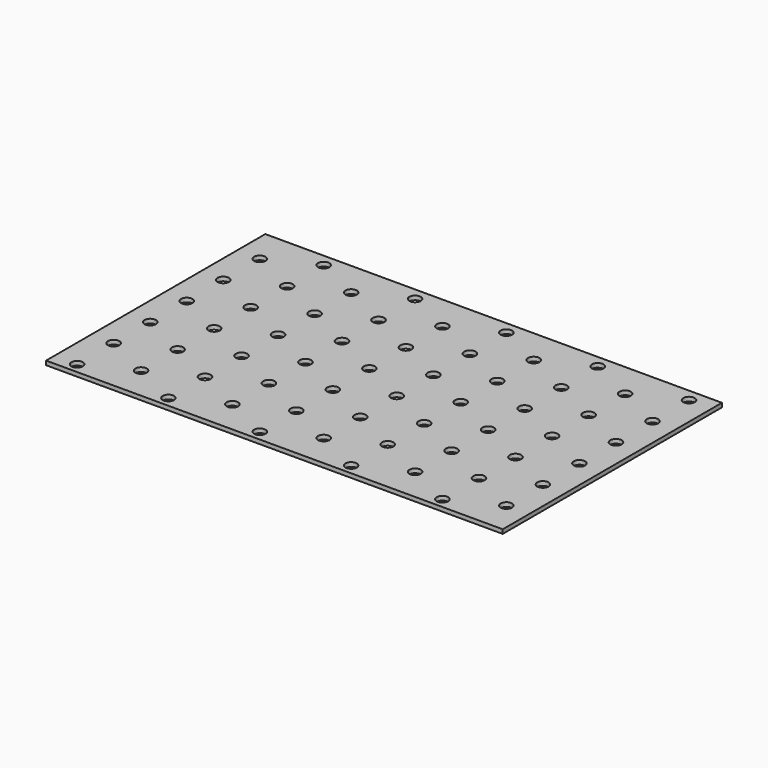
from build123d import *

# Parameters (mm, degrees)
SKETCH_W  = 200
SKETCH_H  = 120
SKETCH_R  = 2.5
PAD_DEPTH = 1.8


with BuildPart() as part:
    # Sketch → Pad (new body)
    with BuildSketch(Plane.XY):
        with Locations((90, 55.5)):
            Rectangle(SKETCH_W, SKETCH_H)
        Circle(SKETCH_R, mode=Mode.SUBTRACT)
        with Locations((0, 20)):
            Circle(SKETCH_R, mode=Mode.SUBTRACT)
        with Locations((0, 40)):
            Circle(SKETCH_R, mode=Mode.SUBTRACT)
        with Locations((0, 60)):
            Circle(SKETCH_R, mode=Mode.SUBTRACT)
        with Locations((20, 10)):
            Circle(SKETCH_R, mode=Mode.SUBTRACT)
        with Locations((20, 30)):
            Circle(SKETCH_R, mode=Mode.SUBTRACT)
        with Locations((20, 50)):
            Circle(SKETCH_R, mode=Mode.SUBTRACT)
        with Locations((20, 70)):
            Circle(SKETCH_R, mode=Mode.SUBTRACT)
        with Locations((40, 0)):
            Circle(SKETCH_R, mode=Mode.SUBTRACT)
        with Locations((40, 20)):
            Circle(SKETCH_R, mode=Mode.SUBTRACT)
        with Locations((40, 40)):
            Circle(SKETCH_R, mode=Mode.SUBTRACT)
        with Locations((40, 60)):
            Circle(SKETCH_R, mode=Mode.SUBTRACT)
        with Locations((60, 10)):
            Circle(SKETCH_R, mode=Mode.SUBTRACT)
        with Locations((60, 30)):
            Circle(SKETCH_R, mode=Mode.SUBTRACT)
        with Locations((60, 50)):
            Circle(SKETCH_R, mode=Mode.SUBTRACT)
        with Locations((60, 70)):
            Circle(SKETCH_R, mode=Mode.SUBTRACT)
        with Locations((80, 0)):
            Circle(SKETCH_R, mode=Mode.SUBTRACT)
        with Locations((80, 20)):
            Circle(SKETCH_R, mode=Mode.SUBTRACT)
        with Locations((80, 40)):
            Circle(SKETCH_R, mode=Mode.SUBTRACT)
        with Locations((80, 60)):
            Circle(SKETCH_R, mode=Mode.SUBTRACT)
        with Locations((100, 10)):
            Circle(SKETCH_R, mode=Mode.SUBTRACT)
        with Locations((100, 30)):
            Circle(SKETCH_R, mode=Mode.SUBTRACT)
        with Locations((100, 50)):
            Circle(SKETCH_R, mode=Mode.SUBTRACT)
        with Locations((100, 70)):
            Circle(SKETCH_R, mode=Mode.SUBTRACT)
        with Locations((120, 0)):
            Circle(SKETCH_R, mode=Mode.SUBTRACT)
        with Locations((120, 20)):
            Circle(SKETCH_R, mode=Mode.SUBTRACT)
        with Locations((120, 40)):
            Circle(SKETCH_R, mode=Mode.SUBTRACT)
        with Locations((120, 60)):
            Circle(SKETCH_R, mode=Mode.SUBTRACT)
        with Locations((140, 10)):
            Circle(SKETCH_R, mode=Mode.SUBTRACT)
        with Locations((140, 30)):
            Circle(SKETCH_R, mode=Mode.SUBTRACT)
        with Locations((140, 50)):
            Circle(SKETCH_R, mode=Mode.SUBTRACT)
        with Locations((140, 70)):
            Circle(SKETCH_R, mode=Mode.SUBTRACT)
        with Locations((160, 0)):
            Circle(SKETCH_R, mode=Mode.SUBTRACT)
        with Locations((160, 20)):
            Circle(SKETCH_R, mode=Mode.SUBTRACT)
        with Locations((160, 40)):
            Circle(SKETCH_R, mode=Mode.SUBTRACT)
        with Locations((160, 60)):
            Circle(SKETCH_R, mode=Mode.SUBTRACT)
        with Locations((180, 10)):
            Circle(SKETCH_R, mode=Mode.SUBTRACT)
        with Locations((180, 30)):
            Circle(SKETCH_R, mode=Mode.SUBTRACT)
        with Locations((180, 50)):
            Circle(SKETCH_R, mode=Mode.SUBTRACT)
        with Locations((180, 70)):
            Circle(SKETCH_R, mode=Mode.SUBTRACT)
        with Locations((0, 80)):
            Circle(SKETCH_R, mode=Mode.SUBTRACT)
        with Locations((20, 90)):
            Circle(SKETCH_R, mode=Mode.SUBTRACT)
        with Locations((40, 80)):
            Circle(SKETCH_R, mode=Mode.SUBTRACT)
        with Locations((60, 90)):
            Circle(SKETCH_R, mode=Mode.SUBTRACT)
        with Locations((80, 80)):
            Circle(SKETCH_R, mode=Mode.SUBTRACT)
        with Locations((100, 90)):
            Circle(SKETCH_R, mode=Mode.SUBTRACT)
        with Locations((120, 80)):
            Circle(SKETCH_R, mode=Mode.SUBTRACT)
        with Locations((140, 90)):
            Circle(SKETCH_R, mode=Mode.SUBTRACT)
        with Locations((160, 80)):
            Circle(SKETCH_R, mode=Mode.SUBTRACT)
        with Locations((180, 90)):
            Circle(SKETCH_R, mode=Mode.SUBTRACT)
        with Locations((0, 100)):
            Circle(SKETCH_R, mode=Mode.SUBTRACT)
        with Locations((40, 100)):
            Circle(SKETCH_R, mode=Mode.SUBTRACT)
        with Locations((80, 100)):
            Circle(SKETCH_R, mode=Mode.SUBTRACT)
        with Locations((120, 100)):
            Circle(SKETCH_R, mode=Mode.SUBTRACT)
        with Locations((160, 100)):
            Circle(SKETCH_R, mode=Mode.SUBTRACT)
        with Locations((20, 110)):
            Circle(SKETCH_R, mode=Mode.SUBTRACT)
        with Locations((60, 110)):
            Circle(SKETCH_R, mode=Mode.SUBTRACT)
        with Locations((100, 110)):
            Circle(SKETCH_R, mode=Mode.SUBTRACT)
        with Locations((140, 110)):
            Circle(SKETCH_R, mode=Mode.SUBTRACT)
        with Locations((180, 110)):
            Circle(SKETCH_R, mode=Mode.SUBTRACT)
    extrude(amount=PAD_DEPTH)


solid = part.part
